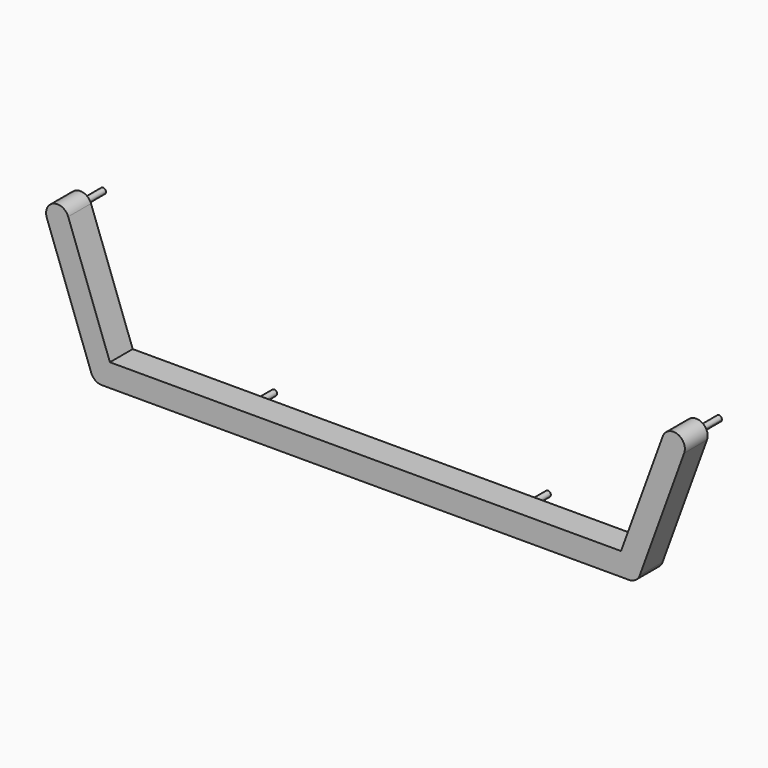
from build123d import *

# Parameters (mm, degrees)
F1_DEPTH = 50
F2_DEPTH = 25


with BuildPart() as f1:
    # F0 (on Front) → F1 (new body)
    with BuildSketch(Plane.XZ):
        with BuildLine():
            ThreePointArc((231.0551849335, -10), (223.9841171217, -7.0710678119), (221.0551849335, 0))
            ThreePointArc((221.0551849335, 0), (221.2071074034, 1.7364817767), (221.6582587257, 3.4202014333))
            Line((221.6582587257, 3.4202014333), (224.0531095514, 10))
            Line((224.0531095514, 10), (0, 10))
            ThreePointArc((0, 10), (-10, 0), (0, -10))
            Line((0, -10), (231.0551849335, -10))
        make_face()
        with BuildLine():
            ThreePointArc((122.5, 0), (120, -2.5), (117.5, 0))
            ThreePointArc((117.5, 0), (120, 2.5), (122.5, 0))
        make_face(mode=Mode.SUBTRACT)
        with BuildLine():
            Line((231.0551849335, 0), (221.0551849335, 0))
            ThreePointArc((221.0551849335, 0), (223.9841171217, -7.0710678119), (231.0551849335, -10))
            ThreePointArc((231.0551849335, -10), (236.790949297, -8.1915204429), (240.4521111414, -3.4202014333))
            ThreePointArc((240.4521111414, -3.4202014333), (240.1182628039, 4.2261826174), (234.4753863668, 9.3969262079))
            Line((234.4753863668, 9.3969262079), (231.0551849335, 0))
        make_face()
        with BuildLine():
            ThreePointArc((231.0551849335, 10), (232.7916667102, 9.8480775301), (234.4753863668, 9.3969262079))
            ThreePointArc((234.4753863668, 9.3969262079), (240.1182628039, 4.2261826174), (240.4521111414, -3.4202014333))
            Line((240.4521111414, -3.4202014333), (279.3969262079, 103.5797985667))
            ThreePointArc((279.3969262079, 103.5797985667), (273.4202014333, 116.3969262079), (260.6030737921, 110.4202014333))
            Line((260.6030737921, 110.4202014333), (224.0531095514, 10))
            Line((224.0531095514, 10), (231.0551849335, 10))
        make_face()
        with BuildLine():
            ThreePointArc((272.5, 107), (271.4339410909, 104.9521198893), (269.1449496417, 104.650768448))
            ThreePointArc((269.1449496417, 104.650768448), (268.5660589091, 109.0478801107), (272.5, 107))
        make_face(mode=Mode.SUBTRACT)
        with BuildLine():
            ThreePointArc((221.6582587257, 3.4202014333), (221.2071074034, 1.7364817767), (221.0551849335, 0))
            Line((221.0551849335, 0), (231.0551849335, 0))
            Line((231.0551849335, 0), (234.4753863668, 9.3969262079))
            ThreePointArc((234.4753863668, 9.3969262079), (232.7916667102, 9.8480775301), (231.0551849335, 10))
            Line((231.0551849335, 10), (224.0531095514, 10))
            Line((224.0531095514, 10), (221.6582587257, 3.4202014333))
        make_face()
        with BuildLine():
            ThreePointArc((272.5, 107), (268.5660589091, 109.0478801107), (269.1449496417, 104.650768448))
            ThreePointArc((269.1449496417, 104.650768448), (271.4339410909, 104.9521198893), (272.5, 107))
        make_face()
        with BuildLine():
            Line((122.5, 0), (117.5, 0))
            ThreePointArc((117.5, 0), (120, -2.5), (122.5, 0))
        make_face()
        with BuildLine():
            ThreePointArc((122.5, 0), (120, 2.5), (117.5, 0))
            Line((117.5, 0), (122.5, 0))
        make_face()
    extrude(amount=F1_DEPTH)

    # F0 (on Front) → F2 (cut)
    with BuildSketch(Plane.XZ):
        with BuildLine():
            ThreePointArc((231.0551849335, -10), (223.9841171217, -7.0710678119), (221.0551849335, 0))
            ThreePointArc((221.0551849335, 0), (221.2071074034, 1.7364817767), (221.6582587257, 3.4202014333))
            Line((221.6582587257, 3.4202014333), (224.0531095514, 10))
            Line((224.0531095514, 10), (0, 10))
            ThreePointArc((0, 10), (-10, 0), (0, -10))
            Line((0, -10), (231.0551849335, -10))
        make_face()
        with BuildLine():
            ThreePointArc((122.5, 0), (120, -2.5), (117.5, 0))
            ThreePointArc((117.5, 0), (120, 2.5), (122.5, 0))
        make_face(mode=Mode.SUBTRACT)
        with BuildLine():
            ThreePointArc((221.6582587257, 3.4202014333), (221.2071074034, 1.7364817767), (221.0551849335, 0))
            Line((221.0551849335, 0), (231.0551849335, 0))
            Line((231.0551849335, 0), (234.4753863668, 9.3969262079))
            ThreePointArc((234.4753863668, 9.3969262079), (232.7916667102, 9.8480775301), (231.0551849335, 10))
            Line((231.0551849335, 10), (224.0531095514, 10))
            Line((224.0531095514, 10), (221.6582587257, 3.4202014333))
        make_face()
        with BuildLine():
            Line((231.0551849335, 0), (221.0551849335, 0))
            ThreePointArc((221.0551849335, 0), (223.9841171217, -7.0710678119), (231.0551849335, -10))
            ThreePointArc((231.0551849335, -10), (236.790949297, -8.1915204429), (240.4521111414, -3.4202014333))
            ThreePointArc((240.4521111414, -3.4202014333), (240.1182628039, 4.2261826174), (234.4753863668, 9.3969262079))
            Line((234.4753863668, 9.3969262079), (231.0551849335, 0))
        make_face()
        with BuildLine():
            ThreePointArc((231.0551849335, 10), (232.7916667102, 9.8480775301), (234.4753863668, 9.3969262079))
            ThreePointArc((234.4753863668, 9.3969262079), (240.1182628039, 4.2261826174), (240.4521111414, -3.4202014333))
            Line((240.4521111414, -3.4202014333), (279.3969262079, 103.5797985667))
            ThreePointArc((279.3969262079, 103.5797985667), (273.4202014333, 116.3969262079), (260.6030737921, 110.4202014333))
            Line((260.6030737921, 110.4202014333), (224.0531095514, 10))
            Line((224.0531095514, 10), (231.0551849335, 10))
        make_face()
        with BuildLine():
            ThreePointArc((272.5, 107), (271.4339410909, 104.9521198893), (269.1449496417, 104.650768448))
            ThreePointArc((269.1449496417, 104.650768448), (268.5660589091, 109.0478801107), (272.5, 107))
        make_face(mode=Mode.SUBTRACT)
    extrude(amount=F2_DEPTH, mode=Mode.SUBTRACT)

    # F3: F1 across plane


with BuildPart() as f1_1:
    add(f1.part)
    add(f1.part.mirror(Plane.YZ))


with BuildPart() as f4_1:
    # F4: copy of F1
    add(f1_1.part)


solid = f1_1.part
